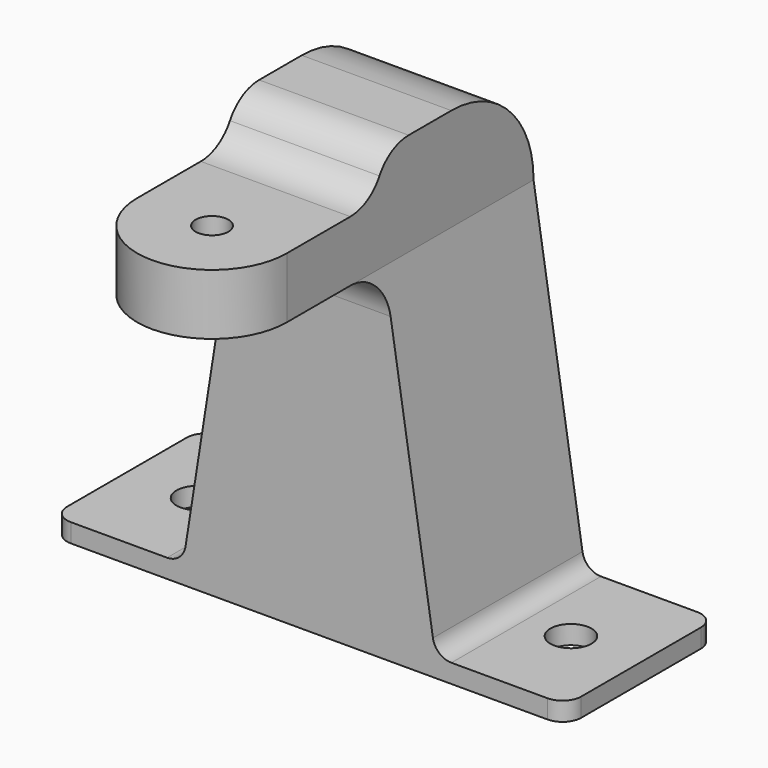
from build123d import *

# Parameters (mm, degrees)
SKETCH035_R  = 2.2
PAD019_DEPTH = 2
SKETCH036_W  = 28
SKETCH036_H  = 6
PAD021_DEPTH = 2.5
SKETCH037_W  = 27
SKETCH037_H  = 20
SKETCH038_W  = 16
SKETCH038_H  = 20
FILLET006_R  = 2
SKETCH041_W  = 16
SKETCH041_H  = 20
PAD022_DEPTH = 11.001
SKETCH039_R  = 1.75
PAD023_DEPTH = 6.5
FILLET004_R  = 11
FILLET005_R  = 4.5
FILLET007_R  = 4.5


with BuildPart() as part:
    # Sketch035 → Pad019 (new body)
    with BuildSketch(Plane.XY):
        with BuildLine():
            Line((-25.5, 10), (25.5, 10))
            ThreePointArc((27.5, 8), (26.914214, 9.414214), (25.5, 10))
            Line((27.5, 8), (27.5, -8))
            ThreePointArc((25.5, -10), (26.914214, -9.414214), (27.5, -8))
            Line((25.5, -10), (-25.5, -10))
            ThreePointArc((-27.5, -8), (-26.914214, -9.414214), (-25.5, -10))
            Line((-27.5, -8), (-27.5, 8))
            ThreePointArc((-25.5, 10), (-26.914214, 9.414214), (-27.5, 8))
        make_face()
        with Locations((-20, 0)):
            Circle(SKETCH035_R, mode=Mode.SUBTRACT)
        with Locations((20, 0)):
            Circle(SKETCH035_R, mode=Mode.SUBTRACT)
    extrude(amount=-PAD019_DEPTH)

    # Sketch036 → Pad021 (join)
    with BuildSketch(Plane(origin=(0, 0, -2), x_dir=(1, 0, 0), z_dir=(0, 0, -1))):
        Rectangle(SKETCH036_W, SKETCH036_H)
    extrude(amount=PAD021_DEPTH)

    # Sketch037 → AdditiveLoft001 section 0
    with BuildSketch(Plane.XY):
        Rectangle(SKETCH037_W, SKETCH037_H)
    # Sketch038 → AdditiveLoft001 section 1
    with BuildSketch(Plane.XY.offset(35)):
        Rectangle(SKETCH038_W, SKETCH038_H)
    loft()

    # Fillet006
    fillet006_edges = [part.edges().sort_by_distance(p)[0] for p in [
        (-13.5, 0, 0),
        (13.5, 0, 0),
    ]]
    fillet(fillet006_edges, radius=FILLET006_R)

    # Sketch041 → Pad022 (join)
    with BuildSketch(Plane.XY.offset(35)):
        Rectangle(SKETCH041_W, SKETCH041_H)
    extrude(amount=PAD022_DEPTH)

    # Sketch039 → Pad023 (join)
    with BuildSketch(Plane(origin=(0, -10, 35), x_dir=(-1, 0, 0), z_dir=(0, 0, 1))):
        with BuildLine():
            Line((8, 0), (-8, 0))
            Line((-8, 0), (-8, 13))
            ThreePointArc((8, 13), (0, 21), (-8, 13))
            Line((8, 13), (8, 0))
        make_face()
        with Locations((0, 13)):
            Circle(SKETCH039_R, mode=Mode.SUBTRACT)
    extrude(amount=PAD023_DEPTH)

    # Fillet004
    fillet004_edges = [part.edges().sort_by_distance(p)[0] for p in [
        (0, 10, 46.001),
    ]]
    fillet(fillet004_edges, radius=FILLET004_R)

    # Fillet005
    fillet005_edges = [part.edges().sort_by_distance(p)[0] for p in [
        (0, -10, 41.5),
        (0, -10, 35),
    ]]
    fillet(fillet005_edges, radius=FILLET005_R)

    # Fillet007
    fillet007_edges = [part.edges().sort_by_distance(p)[0] for p in [
        (0, -10, 46.001),
    ]]
    fillet(fillet007_edges, radius=FILLET007_R)


solid = part.part
